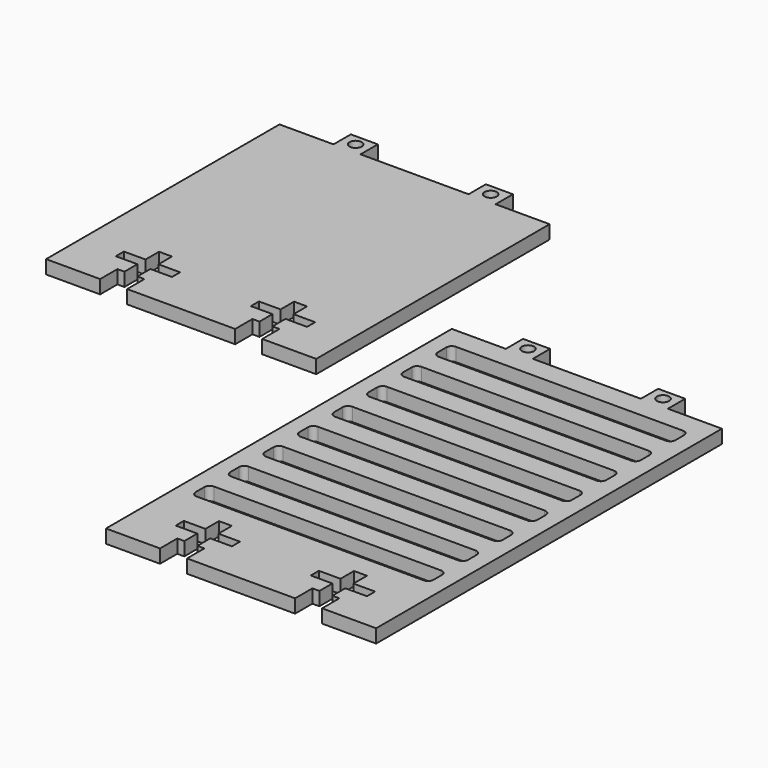
from build123d import *

# Parameters (mm, degrees)
F0_R     = 1.4351
F1_DEPTH = 3.175
F2_R     = 1.4351
F3_DEPTH = 3.175


with BuildPart() as f1:
    # F0 (on Top) → F1 (new body)
    with BuildSketch(Plane.XY):
        Polygon((-21.437375, 5.08), (-19.786375, 5.08), (-19.786375, 0), (-7.086375, 0), (-7.086375, 5.08), (-7.086375, 68.58), (-19.786375, 68.58), (-19.786375, 73.66), (-26.136375, 73.66), (-26.136375, 68.58), (-51.536375, 68.58), (-51.536375, 71.12), (-51.536375, 73.66), (-57.886375, 73.66), (-57.886375, 68.58), (-70.586375, 68.58), (-70.586375, 5.08), (-70.586375, 0), (-57.886375, 0), (-57.886375, 5.08), (-56.235375, 5.08), (-56.235375, 8.89), (-61.315375, 8.89), (-61.315375, 11.2776), (-56.235375, 11.2776), (-56.235375, 15.24), (-54.711375, 15.24), (-53.187375, 15.24), (-53.187375, 11.2776), (-48.107375, 11.2776), (-48.107375, 8.89), (-53.187375, 8.89), (-53.187375, 5.08), (-51.536375, 5.08), (-51.536375, 0), (-26.136375, 0), (-26.136375, 5.08), (-24.485375, 5.08), (-24.485375, 8.89), (-29.565375, 8.89), (-29.565375, 11.2776), (-24.485375, 11.2776), (-24.485375, 15.24), (-22.961375, 15.24), (-21.437375, 15.24), (-21.437375, 11.2776), (-16.357375, 11.2776), (-16.357375, 8.89), (-21.437375, 8.89), align=None)
        with Locations((-54.711375, 71.12)):
            Circle(F0_R, mode=Mode.SUBTRACT)
        with Locations((-22.961375, 71.12)):
            Circle(F0_R, mode=Mode.SUBTRACT)
    extrude(amount=F1_DEPTH)


with BuildPart() as f3:
    # F2 (on Top) → F3 (new body)
    with BuildSketch(Plane.XY):
        Polygon((54.0385, -71.661652), (55.6895, -71.661652), (55.6895, -76.741652), (68.3895, -76.741652), (68.3895, -71.661652), (68.3895, 24.858348), (55.6895, 24.858348), (55.6895, 29.938348), (49.3395, 29.938348), (49.3395, 24.858348), (23.9395, 24.858348), (23.9395, 27.398348), (23.9395, 29.938348), (17.5895, 29.938348), (17.5895, 24.858348), (4.8895, 24.858348), (4.8895, -71.661652), (4.8895, -76.741652), (17.5895, -76.741652), (17.5895, -71.661652), (19.2405, -71.661652), (19.2405, -67.851652), (14.1605, -67.851652), (14.1605, -65.464052), (19.2405, -65.464052), (19.2405, -61.501652), (20.7645, -61.501652), (22.2885, -61.501652), (22.2885, -65.464052), (27.3685, -65.464052), (27.3685, -67.851652), (22.2885, -67.851652), (22.2885, -71.661652), (23.9395, -71.661652), (23.9395, -76.741652), (49.3395, -76.741652), (49.3395, -71.661652), (50.9905, -71.661652), (50.9905, -67.851652), (45.9105, -67.851652), (45.9105, -65.464052), (50.9905, -65.464052), (50.9905, -61.501652), (52.5145, -61.501652), (54.0385, -61.501652), (54.0385, -65.464052), (59.1185, -65.464052), (59.1185, -67.851652), (54.0385, -67.851652), align=None)
        with BuildLine():
            ThreePointArc((8.6995, -52.611652), (9.071475, -51.713626), (9.9695, -51.341652))
            Line((9.9695, -51.341652), (63.3095, -51.341652))
            ThreePointArc((63.3095, -51.341652), (64.207526, -51.713626), (64.5795, -52.611652))
            Line((64.5795, -52.611652), (64.5795, -55.151652))
            ThreePointArc((64.5795, -55.151652), (64.207526, -56.049678), (63.3095, -56.421652))
            Line((63.3095, -56.421652), (9.9695, -56.421652))
            ThreePointArc((9.9695, -56.421652), (9.071475, -56.049678), (8.6995, -55.151652))
            Line((8.6995, -55.151652), (8.6995, -52.611652))
        make_face(mode=Mode.SUBTRACT)
        with BuildLine():
            ThreePointArc((8.6995, -42.451652), (9.071475, -41.553626), (9.9695, -41.181652))
            Line((9.9695, -41.181652), (63.3095, -41.181652))
            ThreePointArc((63.3095, -41.181652), (64.207526, -41.553626), (64.5795, -42.451652))
            Line((64.5795, -42.451652), (64.5795, -44.991652))
            ThreePointArc((64.5795, -44.991652), (64.207526, -45.889678), (63.3095, -46.261652))
            Line((63.3095, -46.261652), (9.9695, -46.261652))
            ThreePointArc((9.9695, -46.261652), (9.071475, -45.889678), (8.6995, -44.991652))
            Line((8.6995, -44.991652), (8.6995, -42.451652))
        make_face(mode=Mode.SUBTRACT)
        with BuildLine():
            ThreePointArc((8.6995, -22.131652), (9.071475, -21.233626), (9.9695, -20.861652))
            Line((9.9695, -20.861652), (63.3095, -20.861652))
            ThreePointArc((63.3095, -20.861652), (64.207526, -21.233626), (64.5795, -22.131652))
            Line((64.5795, -22.131652), (64.5795, -24.671652))
            ThreePointArc((64.5795, -24.671652), (64.207526, -25.569678), (63.3095, -25.941652))
            Line((63.3095, -25.941652), (9.9695, -25.941652))
            ThreePointArc((9.9695, -25.941652), (9.071475, -25.569678), (8.6995, -24.671652))
            Line((8.6995, -24.671652), (8.6995, -22.131652))
        make_face(mode=Mode.SUBTRACT)
        with BuildLine():
            ThreePointArc((8.6995, -32.291652), (9.071475, -31.393626), (9.9695, -31.021652))
            Line((9.9695, -31.021652), (63.3095, -31.021652))
            ThreePointArc((63.3095, -31.021652), (64.207526, -31.393626), (64.5795, -32.291652))
            Line((64.5795, -32.291652), (64.5795, -34.831652))
            ThreePointArc((64.5795, -34.831652), (64.207526, -35.729678), (63.3095, -36.101652))
            Line((63.3095, -36.101652), (9.9695, -36.101652))
            ThreePointArc((9.9695, -36.101652), (9.071475, -35.729678), (8.6995, -34.831652))
            Line((8.6995, -34.831652), (8.6995, -32.291652))
        make_face(mode=Mode.SUBTRACT)
        with Locations((20.7645, 27.398348)):
            Circle(F2_R, mode=Mode.SUBTRACT)
        with BuildLine():
            ThreePointArc((8.6995, -11.971652), (9.071475, -11.073626), (9.9695, -10.701652))
            Line((9.9695, -10.701652), (63.3095, -10.701652))
            ThreePointArc((63.3095, -10.701652), (64.207526, -11.073626), (64.5795, -11.971652))
            Line((64.5795, -11.971652), (64.5795, -14.511652))
            ThreePointArc((64.5795, -14.511652), (64.207526, -15.409678), (63.3095, -15.781652))
            Line((63.3095, -15.781652), (9.9695, -15.781652))
            ThreePointArc((9.9695, -15.781652), (9.071475, -15.409678), (8.6995, -14.511652))
            Line((8.6995, -14.511652), (8.6995, -11.971652))
        make_face(mode=Mode.SUBTRACT)
        with BuildLine():
            ThreePointArc((8.6995, -1.811652), (9.071475, -0.913626), (9.9695, -0.541652))
            Line((9.9695, -0.541652), (63.3095, -0.541652))
            ThreePointArc((63.3095, -0.541652), (64.207526, -0.913626), (64.5795, -1.811652))
            Line((64.5795, -1.811652), (64.5795, -4.351652))
            ThreePointArc((64.5795, -4.351652), (64.207526, -5.249678), (63.3095, -5.621652))
            Line((63.3095, -5.621652), (9.9695, -5.621652))
            ThreePointArc((9.9695, -5.621652), (9.071475, -5.249678), (8.6995, -4.351652))
            Line((8.6995, -4.351652), (8.6995, -1.811652))
        make_face(mode=Mode.SUBTRACT)
        with BuildLine():
            ThreePointArc((8.6995, 8.348348), (9.071475, 9.246374), (9.9695, 9.618348))
            Line((9.9695, 9.618348), (63.3095, 9.618348))
            ThreePointArc((63.3095, 9.618348), (64.207526, 9.246374), (64.5795, 8.348348))
            Line((64.5795, 8.348348), (64.5795, 5.808348))
            ThreePointArc((64.5795, 5.808348), (64.207526, 4.910322), (63.3095, 4.538348))
            Line((63.3095, 4.538348), (9.9695, 4.538348))
            ThreePointArc((9.9695, 4.538348), (9.071475, 4.910322), (8.6995, 5.808348))
            Line((8.6995, 5.808348), (8.6995, 8.348348))
        make_face(mode=Mode.SUBTRACT)
        with BuildLine():
            ThreePointArc((8.6995, 18.508348), (9.071475, 19.406374), (9.9695, 19.778348))
            Line((9.9695, 19.778348), (63.3095, 19.778348))
            ThreePointArc((63.3095, 19.778348), (64.207526, 19.406374), (64.5795, 18.508348))
            Line((64.5795, 18.508348), (64.5795, 15.968348))
            ThreePointArc((64.5795, 15.968348), (64.207526, 15.070322), (63.3095, 14.698348))
            Line((63.3095, 14.698348), (9.9695, 14.698348))
            ThreePointArc((9.9695, 14.698348), (9.071475, 15.070322), (8.6995, 15.968348))
            Line((8.6995, 15.968348), (8.6995, 18.508348))
        make_face(mode=Mode.SUBTRACT)
        with Locations((52.5145, 27.398348)):
            Circle(F2_R, mode=Mode.SUBTRACT)
    extrude(amount=F3_DEPTH)


solid = Compound([f1.part, f3.part])
